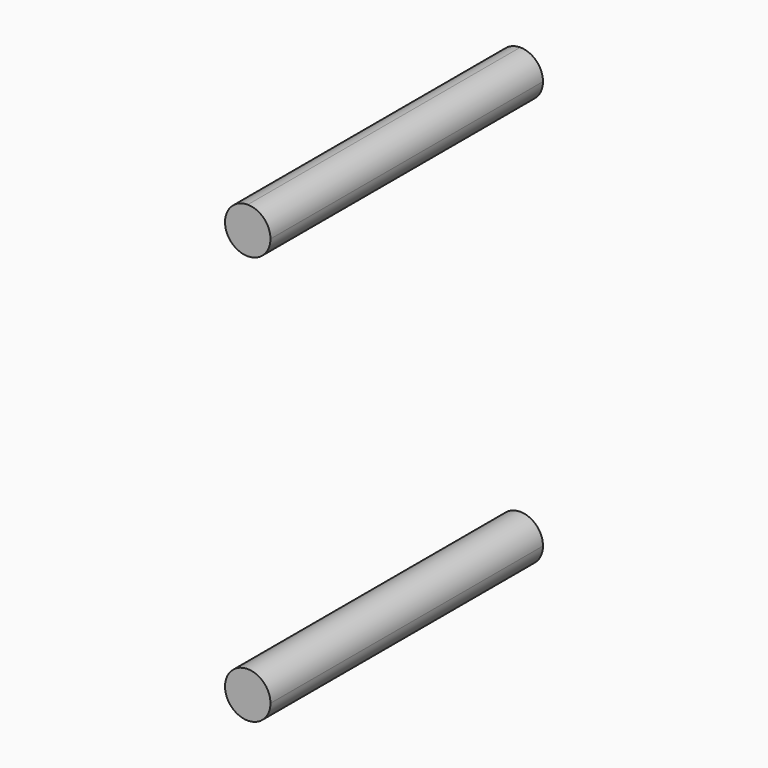
from build123d import *

# Parameters (mm, degrees)
F1_DEPTH = 762


with BuildPart() as f1:
    # F0 (on Front) → F1 (new body)
    with BuildSketch(Plane.XZ):
        with BuildLine():
            ThreePointArc((-661.009352, 458.576989), (-610.209352, 407.776989), (-559.409352, 458.576989))
            ThreePointArc((-559.409352, 458.576989), (-574.288327, 494.498014), (-610.209352, 509.376989))
            ThreePointArc((-610.209352, 509.376989), (-646.130376, 494.498014), (-661.009352, 458.576989))
        make_face()
        with BuildLine():
            ThreePointArc((-610.209352, -506.623011), (-574.288327, -491.744035), (-559.409352, -455.823011))
            ThreePointArc((-559.409352, -455.823011), (-610.209352, -405.023011), (-661.009352, -455.823011))
            ThreePointArc((-661.009352, -455.823011), (-646.130376, -491.744035), (-610.209352, -506.623011))
        make_face()
    extrude(amount=F1_DEPTH)


solid = f1.part
